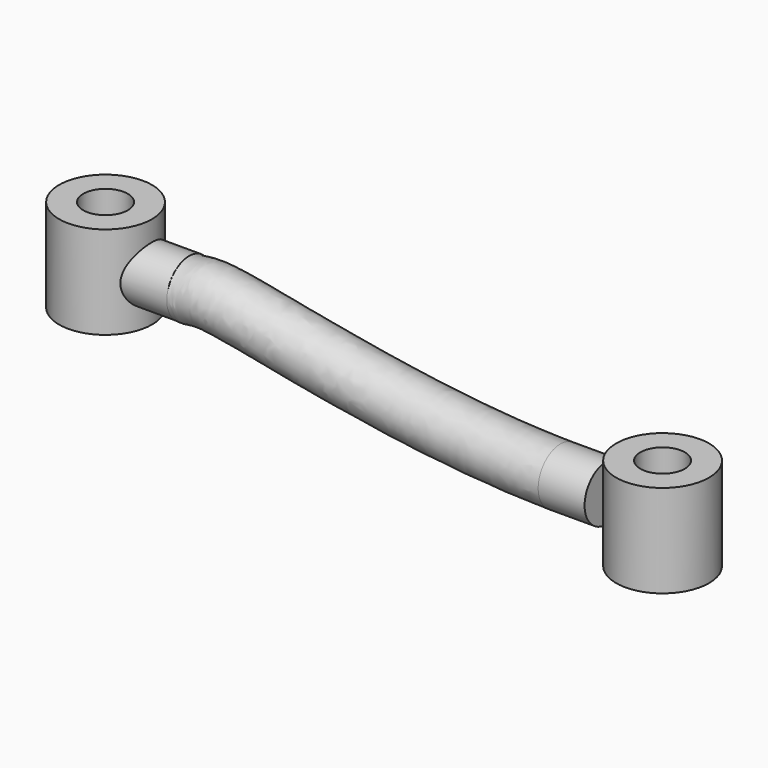
from build123d import *

# Parameters (mm, degrees)
F0_R     = 12.5
F0_R_2   = 6
F1_DEPTH = 25
F2_R     = 12.5
F2_R_2   = 6
F3_DEPTH = 12.5
F6_R     = 7.5


with BuildPart() as f1:
    # F0 (on Top) → F1 (new body)
    with BuildSketch(Plane.XY):
        Circle(F0_R)
        Circle(F0_R_2, mode=Mode.SUBTRACT)
    extrude(amount=F1_DEPTH)


with BuildPart() as f3:
    # F2 (on Top) → F3 (new body, symmetric)
    with BuildSketch(Plane.XY):
        with Locations((150, 0)):
            Circle(F2_R)
        with Locations((150, 0)):
            Circle(F2_R_2, mode=Mode.SUBTRACT)
    extrude(amount=F3_DEPTH, both=True)


with BuildPart() as f7:
    # F7: sweep along a path in F4
    with BuildLine(Plane.XZ) as f7_path:
        Line((12.5, 12.0255414299), (25, 12.0255414299))
        add(Plane.XZ * Edge.make_bspline(
            [(25, 12.0255414299), (26.3581174101, 12.0255414299), (33.1495987974, 13.5050102626), (83.8456551696, 0), (125, 0)],
            knots=[0, 0, 0, 0, 0.1974668353, 1, 1, 1, 1], degree=3))
        Line((125, 0), (137.5, 0))
    # F6 (on offset) → F7 (sweep)
    with BuildSketch(Plane.YZ.offset(10)):
        with Locations((0, 12.0255414299)):
            Circle(F6_R)
    sweep(path=f7_path.line)


solid = Compound([f1.part, f3.part, f7.part])
